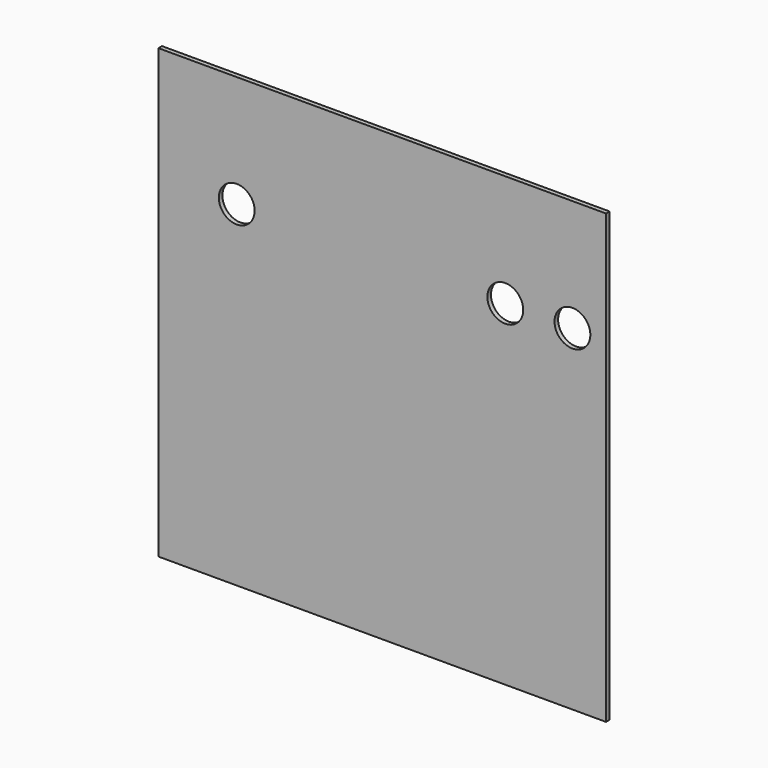
from build123d import *

# Parameters (mm, degrees)
F0_W     = 200
F0_H     = 200
F1_DEPTH = 2
F2_R     = 8
F3_DEPTH = 2


with BuildPart() as f1:
    # F0 (on Front) → F1 (new body)
    with BuildSketch(Plane.XZ):
        with Locations((100, 100)):
            Rectangle(F0_W, F0_H)
    extrude(amount=-F1_DEPTH)

    # F2 (on face) → F3 (cut, through all)
    with BuildSketch(Plane.XZ):
        with Locations((35, 150)):
            Circle(F2_R)
        with Locations((155, 150)):
            Circle(F2_R)
        with Locations((185, 150)):
            Circle(F2_R)
    extrude(amount=-F3_DEPTH, mode=Mode.SUBTRACT)


solid = f1.part
